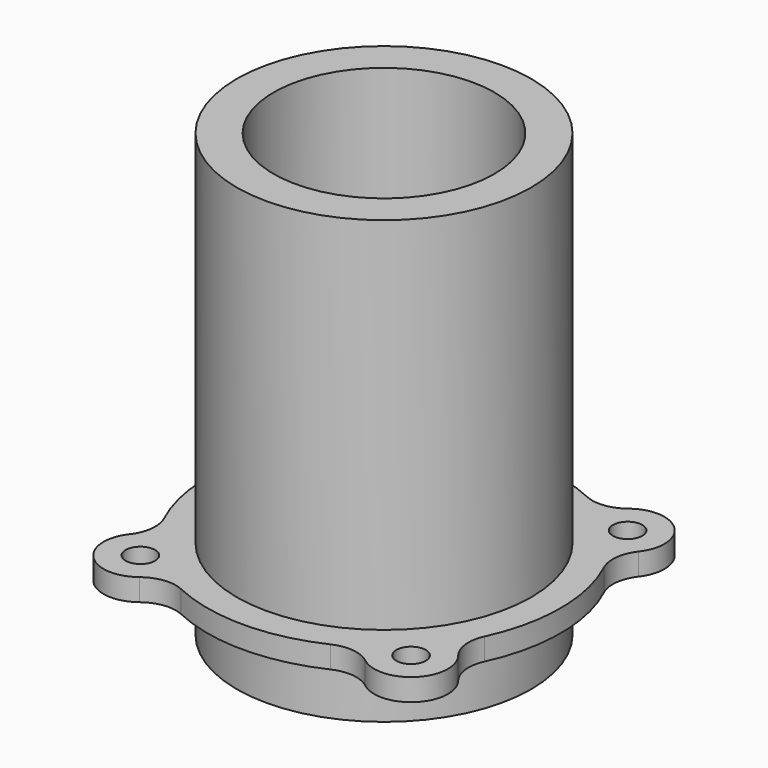
from build123d import *

# Parameters (mm, degrees)
F0_R          = 2
F0_R_2        = 20
F1_DEPTH      = 3
F2_R          = 5
F3_R          = 20
F3_R_2        = 15
F4_DEPTH      = 52
F4_DEPTH_BACK = 8


with BuildPart() as f1:
    # F0 (on Top) → F1 (new body)
    with BuildSketch(Plane.XY):
        with BuildLine():
            ThreePointArc((-13.584878, 19.785123), (-21.92031, 21.92031), (-19.785123, 13.584878))
            ThreePointArc((-19.785123, 13.584878), (-24, 0), (-19.785123, -13.584878))
            ThreePointArc((-19.785123, -13.584878), (-21.92031, -21.92031), (-13.584878, -19.785123))
            ThreePointArc((-13.584878, -19.785123), (0, -24), (13.584878, -19.785123))
            ThreePointArc((13.584878, -19.785123), (21.92031, -21.92031), (19.785123, -13.584878))
            ThreePointArc((19.785123, -13.584878), (24, 0), (19.785123, 13.584878))
            ThreePointArc((19.785123, 13.584878), (21.92031, 21.92031), (13.584878, 19.785123))
            ThreePointArc((13.584878, 19.785123), (0, 24), (-13.584878, 19.785123))
        make_face()
        with Locations((-18.384776, -18.384776)):
            Circle(F0_R, mode=Mode.SUBTRACT)
        with Locations((18.384776, -18.384776)):
            Circle(F0_R, mode=Mode.SUBTRACT)
        with Locations((-18.384776, 18.384776)):
            Circle(F0_R, mode=Mode.SUBTRACT)
        Circle(F0_R_2, mode=Mode.SUBTRACT)
        with Locations((18.384776, 18.384776)):
            Circle(F0_R, mode=Mode.SUBTRACT)
    extrude(amount=F1_DEPTH)

    # F2
    f2_edges = [f1.edges().sort_by_distance(p)[0] for p in [
        (-13.584878, -19.785123, 1.5),
        (19.785123, 13.584878, 1.5),
        (-19.785123, 13.584878, 1.5),
        (-19.785123, -13.584878, 1.5),
        (19.785123, -13.584878, 1.5),
        (-13.584878, 19.785123, 1.5),
        (13.584878, -19.785123, 1.5),
        (13.584878, 19.785123, 1.5),
    ]]
    fillet(f2_edges, radius=F2_R)

    # F3 (on Top) → F4 (join, two sides)
    with BuildSketch(Plane.XY) as f4_sk:
        Circle(F3_R)
        Circle(F3_R_2, mode=Mode.SUBTRACT)
    extrude(amount=F4_DEPTH)
    extrude(f4_sk.sketch, amount=-F4_DEPTH_BACK)


solid = f1.part
